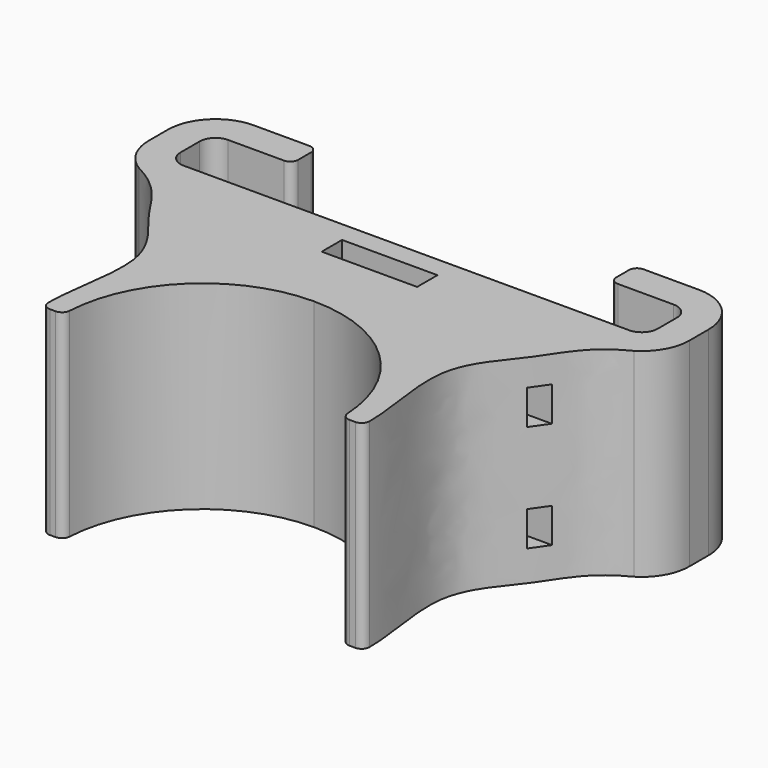
from build123d import *

# Parameters (mm, degrees)
F1_DEPTH      = 25
F3_W          = 2.0907083526
F3_H          = 4.3556410819
F4_DEPTH      = 59.0010001
F4_DEPTH_BACK = 25


with BuildPart() as f1:
    # F0 (on Top) → F1 (new body)
    with BuildSketch(Plane.XY):
        with BuildLine():
            Line((28, 0), (0, 0))
            Line((0, 0), (-28, 0))
            ThreePointArc((-28, 0), (-29.4142135624, 0.5857864376), (-30, 2))
            Line((-30, 2), (-30, 5))
            ThreePointArc((-30, 5), (-29.4142135624, 6.4142135624), (-28, 7))
            Line((-28, 7), (-21, 7))
            ThreePointArc((-21, 7), (-20.2928932188, 7.2928932188), (-20, 8))
            Line((-20, 8), (-20, 10))
            ThreePointArc((-20, 10), (-20.2928932188, 10.7071067812), (-21, 11))
            Line((-21, 11), (-28, 11))
            ThreePointArc((-28, 11), (-32.2426406871, 9.2426406871), (-34, 5))
            Line((-34, 5), (-34, 2))
            ThreePointArc((-34, 2), (-33.2295778289, -0.9413459047), (-31.116161423, -3.1273324435))
            add(Edge.make_bspline(
                [(-20.2002647828, -31.033764074), (-20.2216697913, -27.1145849984), (-17.4005191837, -17.4814529394), (-24.9095102489, -10.2786252936), (-27.0259722507, -5.2164699757), (-31.116161423, -3.1273324435)],
                knots=[0.0299386357, 0.0299386357, 0.0299386357, 0.0299386357, 0.374142378, 0.6819001297, 1, 1, 1, 1], degree=3))
            ThreePointArc((-20.2002647828, -31.033764074), (-19.9054528943, -31.7373376424), (-19.200279697, -32.0283025503))
            Line((-19.200279697, -32.0283025503), (-18.4729532019, -32.0283025503))
            ThreePointArc((-18.4729532019, -32.0283025503), (-17.7852228965, -31.7542688216), (-17.474415191, -31.0823566044))
            ThreePointArc((-17.474415191, -31.0823566044), (-12.0352803446, -19.323892803), (0, -14.5283025503))
            ThreePointArc((0, -14.5283025503), (12.0352803446, -19.323892803), (17.474415191, -31.0823566044))
            ThreePointArc((17.474415191, -31.0823566044), (17.7852228965, -31.7542688216), (18.4729532019, -32.0283025503))
            Line((18.4729532019, -32.0283025503), (19.200279697, -32.0283025503))
            ThreePointArc((19.200279697, -32.0283025503), (19.9054528943, -31.7373376424), (20.2002647828, -31.033764074))
            add(Edge.make_bspline(
                [(20.2002647828, -31.033764074), (20.2216697913, -27.1145849984), (17.4005191837, -17.4814529394), (24.9095102489, -10.2786252936), (27.0259722507, -5.2164699757), (31.116161423, -3.1273324435)],
                knots=[0.0299386357, 0.0299386357, 0.0299386357, 0.0299386357, 0.374142378, 0.6819001297, 1, 1, 1, 1], degree=3))
            ThreePointArc((31.116161423, -3.1273324435), (33.2295778289, -0.9413459047), (34, 2))
            Line((34, 2), (34, 5))
            ThreePointArc((34, 5), (32.2426406871, 9.2426406871), (28, 11))
            Line((28, 11), (21, 11))
            ThreePointArc((21, 11), (20.2928932188, 10.7071067812), (20, 10))
            Line((20, 10), (20, 8))
            ThreePointArc((20, 8), (20.2928932188, 7.2928932188), (21, 7))
            Line((21, 7), (28, 7))
            ThreePointArc((28, 7), (29.4142135624, 6.4142135624), (30, 5))
            Line((30, 5), (30, 2))
            ThreePointArc((30, 2), (29.4142135624, 0.5857864376), (28, 0))
        make_face()
        Polygon((-6, -2.6120110326), (0, -2.6120110326), (6, -2.6120110326), (6, -5.8120110326), (-6, -5.8120110326), align=None, mode=Mode.SUBTRACT)
    extrude(amount=F1_DEPTH)

    # F3 (on offset) → F4 (cut, two sides)
    with BuildSketch(Plane.YZ.offset(25)) as f4_sk:
        with Locations((-9.738416411, 19.4626431912)):
            Rectangle(F3_W, F3_H)
        with Locations((-9.7166006453, 6.0226437636)):
            Rectangle(F3_W, F3_H)
    extrude(amount=-F4_DEPTH, mode=Mode.SUBTRACT)
    extrude(f4_sk.sketch, amount=F4_DEPTH_BACK, mode=Mode.SUBTRACT)


solid = f1.part
